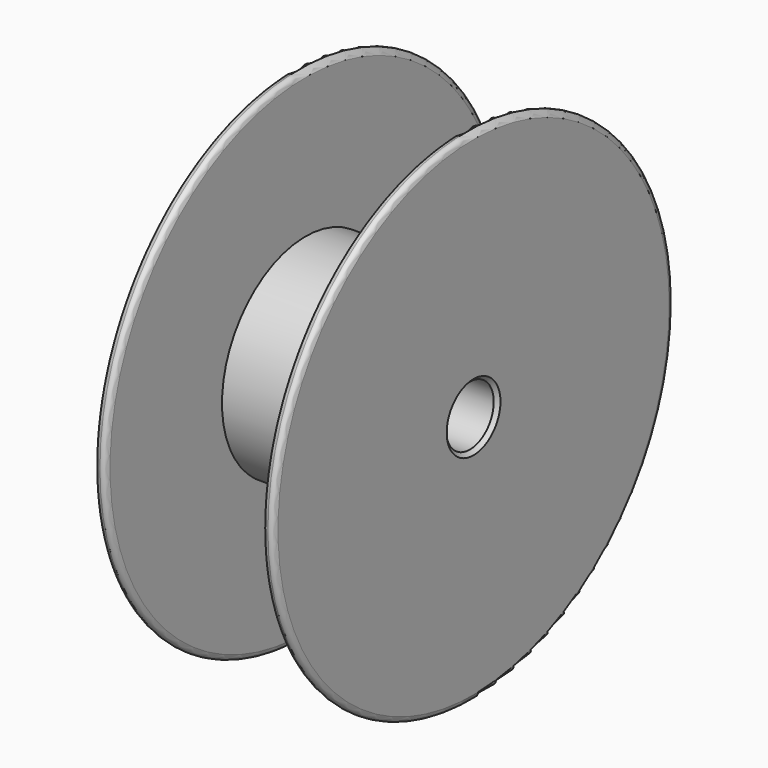
from build123d import *

# Parameters (mm, degrees)
F2_SIZE = 1


with BuildPart() as f1:
    # F0 (on Top) → F1 (revolve)
    with BuildSketch(Plane.XY):
        with BuildLine():
            Line((0, 65.5), (0, 8))
            Line((0, 8), (48, 8))
            Line((48, 8), (48, 65.5))
            ThreePointArc((48, 65.5), (47.56066, 66.56066), (46.5, 67))
            ThreePointArc((46.5, 67), (45.43934, 66.56066), (45, 65.5))
            Line((45, 65.5), (45, 28))
            Line((45, 28), (3, 28))
            Line((3, 28), (3, 65.5))
            ThreePointArc((3, 65.5), (2.56066, 66.56066), (1.5, 67))
            ThreePointArc((1.5, 67), (0.43934, 66.56066), (0, 65.5))
        make_face()
    revolve(axis=Axis((24, 0, 0), (1, 0, 0)))

    # F2
    f2_edges = [f1.edges().sort_by_distance(p)[0] for p in [
        (0, -8, 0),
        (48, -8, 0),
    ]]
    chamfer(f2_edges, length=F2_SIZE)


solid = f1.part
